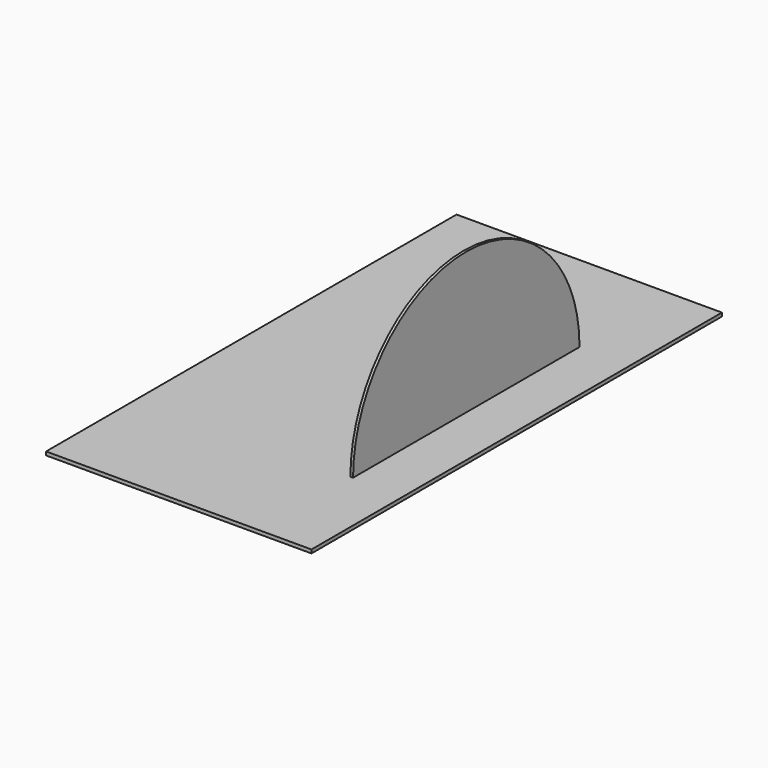
from build123d import *

# Parameters (mm, degrees)
F0_W     = 150
F0_H     = 290
F1_DEPTH = 2
F2_W     = 1.5
F2_H     = 160
F3_DEPTH = 80
F5_DEPTH = 25


with BuildPart() as f1:
    # F0 (on Top) → F1 (new body)
    with BuildSketch(Plane.XY):
        with Locations((75, 145)):
            Rectangle(F0_W, F0_H)
    extrude(amount=F1_DEPTH)

    # F2 (on face) → F3 (join)
    with BuildSketch(Plane.XY.offset(2)):
        with Locations((120.755315, 145)):
            Rectangle(F2_W, F2_H)
    extrude(amount=F3_DEPTH)

    # F4 (on face) → F5 (cut)
    with BuildSketch(Plane.YZ.offset(121.505315)):
        with BuildLine():
            Line((65, 82), (65, 2))
            ThreePointArc((65, 2), (88.431458, 58.568542), (145, 82))
            Line((145, 82), (65, 82))
        make_face()
        with BuildLine():
            ThreePointArc((145, 82), (201.568542, 58.568542), (225, 2))
            Line((225, 2), (225, 82))
            Line((225, 82), (145, 82))
        make_face()
    extrude(amount=-F5_DEPTH, mode=Mode.SUBTRACT)


solid = f1.part
